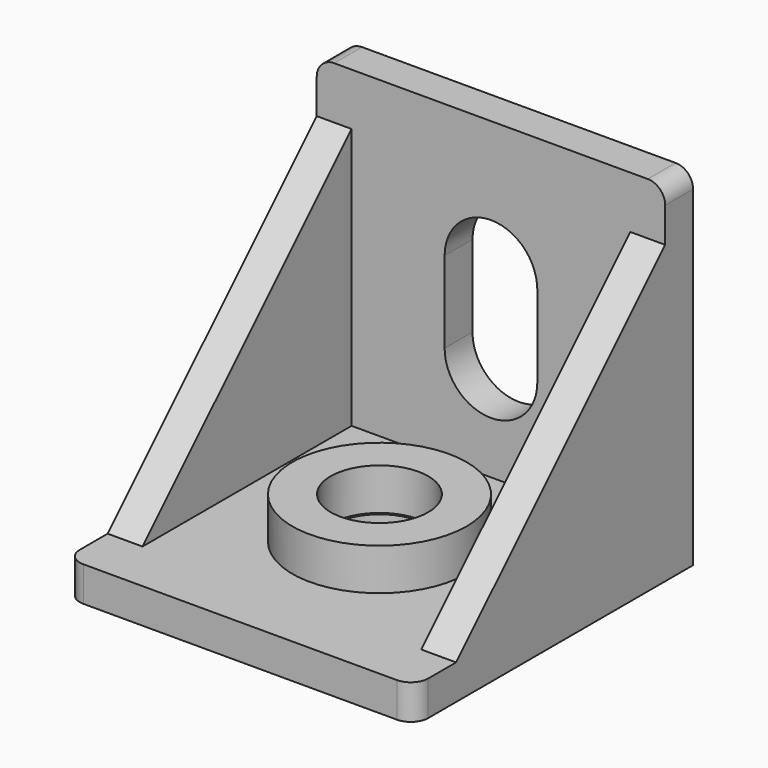
from build123d import *

# Parameters (mm, degrees)
SKETCH_R      = 3.3782
PAD_DEPTH     = 2.54
PAD001_DEPTH  = 2.54
PAD002_DEPTH  = 2.54
SKETCH003_R   = 6.35
SKETCH003_R_2 = 3.556
PAD003_DEPTH  = 3.048


with BuildPart() as bracket:
    # Sketch → Pad (new body)
    with BuildSketch(Plane.XY):
        with BuildLine():
            Line((-12.7, 12.7), (-12.7, -11.43))
            ThreePointArc((-12.7, -11.43), (-12.328026, -12.328026), (-11.43, -12.7))
            Line((-11.43, -12.7), (11.43, -12.7))
            ThreePointArc((11.43, -12.7), (12.328026, -12.328026), (12.7, -11.43))
            Line((12.7, -11.43), (12.7, 12.7))
            Line((12.7, 12.7), (-12.7, 12.7))
        make_face()
        Circle(SKETCH_R, mode=Mode.SUBTRACT)
    extrude(amount=PAD_DEPTH)

    # Sketch001 → Pad001 (join)
    with BuildSketch(Plane.XZ.offset(-12.7)):
        with BuildLine():
            Line((-12.7, 0), (12.7, 0))
            Line((12.7, 0), (12.7, 24.13))
            ThreePointArc((12.7, 24.13), (12.328026, 25.028026), (11.43, 25.4))
            Line((11.43, 25.4), (-11.43, 25.4))
            ThreePointArc((-11.43, 25.4), (-12.328026, 25.028026), (-12.7, 24.13))
            Line((-12.7, 24.13), (-12.7, 0))
        make_face()
        with BuildLine():
            Line((-3.3782, 15.6718), (-3.3782, 9.7282))
            ThreePointArc((-3.3782, 9.7282), (0, 6.35), (3.3782, 9.7282))
            Line((3.3782, 9.7282), (3.3782, 15.6718))
            ThreePointArc((3.3782, 15.6718), (0, 19.05), (-3.3782, 15.6718))
        make_face(mode=Mode.SUBTRACT)
    extrude(amount=PAD001_DEPTH)

    # Sketch002 → Pad002 (join)
    with BuildSketch(Plane.YZ.offset(12.7)):
        Polygon((12.7, 0), (12.7, 24.13), (-11.43, 0), align=None)
    pad002 = extrude(amount=-PAD002_DEPTH)

    # Mirrored: Pad002 across YZ
    add(pad002.mirror(Plane.YZ))


with BuildPart() as spacer:
    # Sketch003 → Pad003 (new body)
    with BuildSketch(Plane.XY.offset(2.54)):
        Circle(SKETCH003_R)
        Circle(SKETCH003_R_2, mode=Mode.SUBTRACT)
    extrude(amount=PAD003_DEPTH)


solid = Compound([bracket.part, spacer.part])
